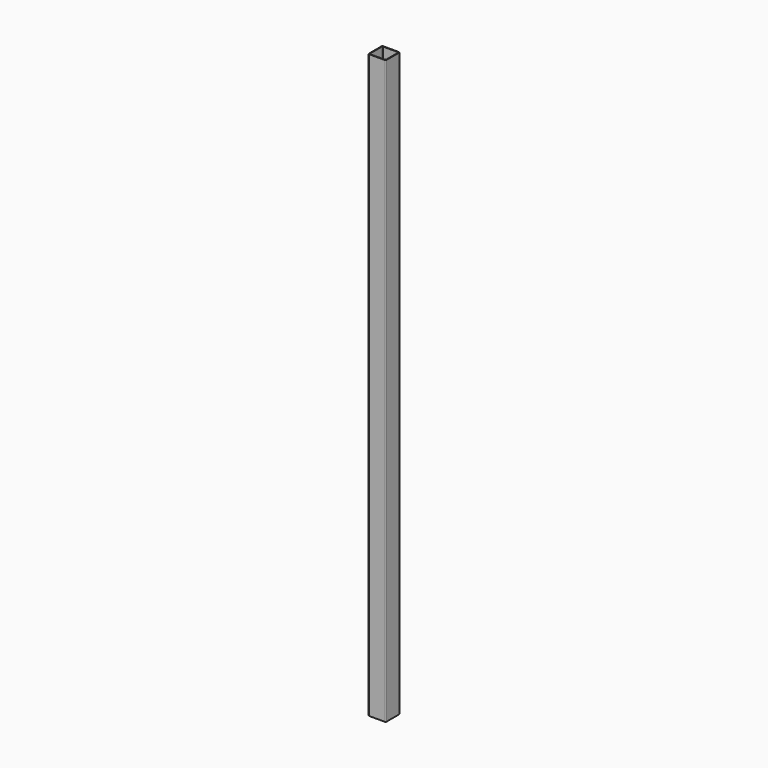
from build123d import *

# Parameters (mm, degrees)
F0_W     = 30
F0_H     = 30
F0_W_2   = 28
F0_H_2   = 28
F1_DEPTH = 500
F2_R     = 1.5


with BuildPart() as f1:
    # F0 (on Top) → F1 (new body, symmetric)
    with BuildSketch(Plane.XY):
        Rectangle(F0_W, F0_H)
        Rectangle(F0_W_2, F0_H_2, mode=Mode.SUBTRACT)
    extrude(amount=F1_DEPTH, both=True)

    # F2
    f2_edges = [f1.edges().sort_by_distance(p)[0] for p in [
        (14, 14, 0),
        (-14, 14, 0),
        (-14, -14, 0),
        (14, -14, 0),
        (-15, 15, 0),
        (-15, -15, 0),
        (15, 15, 0),
        (15, -15, 0),
    ]]
    fillet(f2_edges, radius=F2_R)


solid = f1.part
